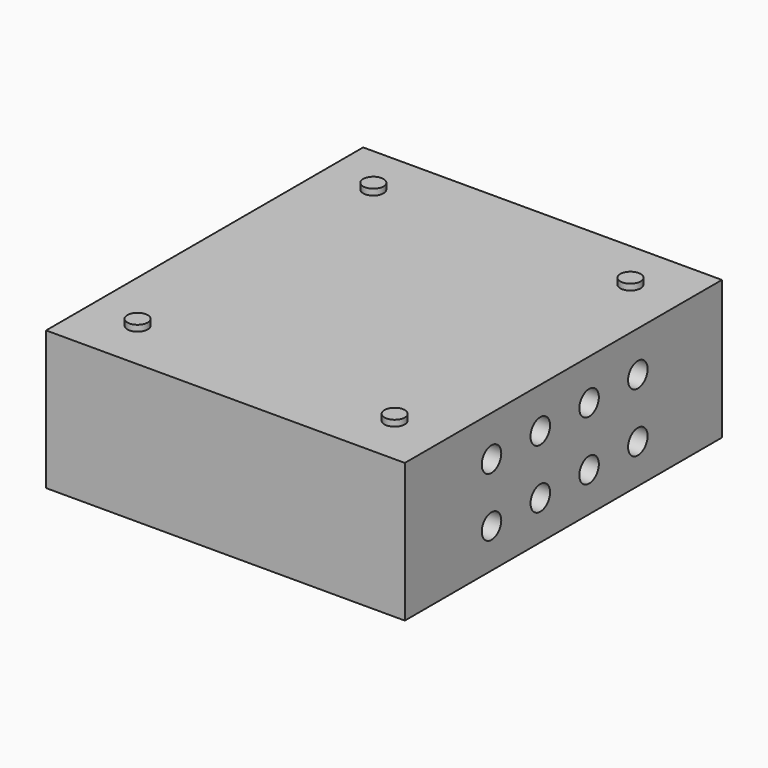
from build123d import *

# Parameters (mm, degrees)
F0_W     = 176.5
F0_H     = 195
F1_DEPTH = 68.3
F2_R     = 5
F3_DEPTH = 3
F4_R     = 6
F5_DEPTH = 25


with BuildPart() as f1:
    # F0 (on Top) → F1 (new body)
    with BuildSketch(Plane.XY):
        with Locations((-88.25, 97.5)):
            Rectangle(F0_W, F0_H)
    extrude(amount=-F1_DEPTH)

    # F2 (on face) → F3 (join)
    with BuildSketch(Plane.XY):
        with Locations((-25, 170)):
            Circle(F2_R)
        with Locations((-151.5, 170)):
            Circle(F2_R)
        with Locations((-151.5, 25)):
            Circle(F2_R)
        with Locations((-25, 25)):
            Circle(F2_R)
    extrude(amount=F3_DEPTH)

    # F4 (on face) → F5 (cut)
    with BuildSketch(Plane.YZ):
        with Locations((143.3, -49)):
            Circle(F4_R)
        with Locations((113.3, -49)):
            Circle(F4_R)
        with Locations((83.3, -49)):
            Circle(F4_R)
        with Locations((53.3, -49)):
            Circle(F4_R)
        with Locations((53.3, -20)):
            Circle(F4_R)
        with Locations((83.3, -20)):
            Circle(F4_R)
        with Locations((113.3, -20)):
            Circle(F4_R)
        with Locations((143.3, -20)):
            Circle(F4_R)
    extrude(amount=-F5_DEPTH, mode=Mode.SUBTRACT)


solid = f1.part
